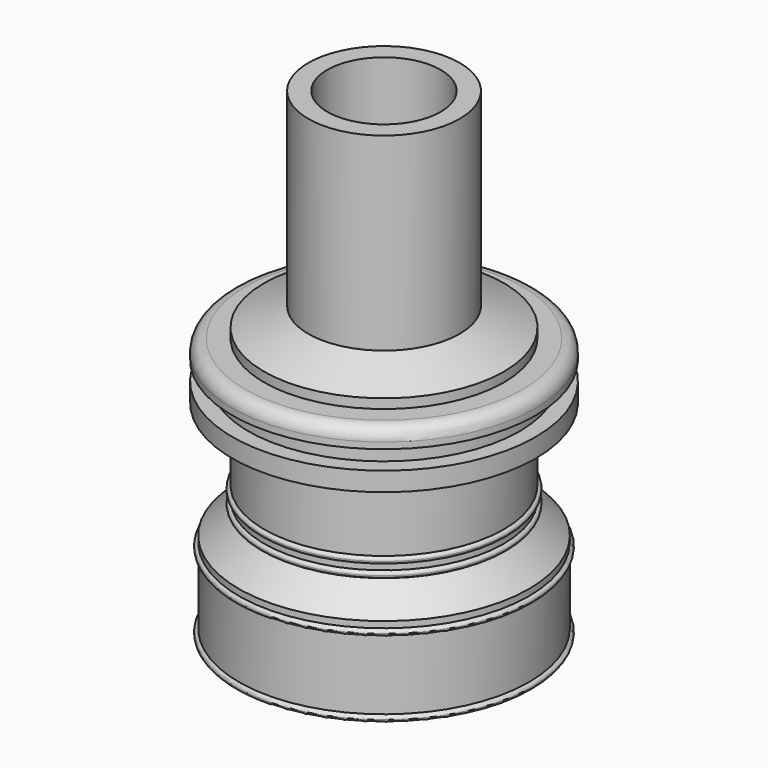
from build123d import *


with BuildPart() as f2:
    # F0 (on Front) → F2 (revolve)
    with BuildSketch(Plane.XZ):
        with BuildLine():
            ThreePointArc((23.5, 0.5), (23.3535533906, 0.8535533906), (23, 1))
            Line((23, 1), (23, 12))
            ThreePointArc((23, 12), (23.3535533906, 12.1464466094), (23.5, 12.5))
            ThreePointArc((23.5, 12.5), (23.3535533906, 12.8535533906), (23, 13))
            Line((23, 13), (23, 14))
            Line((23, 14), (19, 17.9))
            Line((19, 17.9), (19, 18))
            ThreePointArc((19, 18), (19.3535533906, 18.1464466094), (19.5, 18.5))
            ThreePointArc((19.5, 18.5), (19.3535533906, 18.8535533906), (19, 19))
            Line((19, 19), (19, 20))
            ThreePointArc((19, 20), (19.3535533906, 20.1464466094), (19.5, 20.5))
            ThreePointArc((19.5, 20.5), (19.3535533906, 20.8535533906), (19, 21))
            Line((19, 21), (19, 32.5))
            Line((19, 32.5), (24, 32.5))
            Line((24, 32.5), (24, 35.5))
            Line((24, 35.5), (21.5, 35.5))
            Line((21.5, 35.5), (21.5, 38.5))
            Line((21.5, 38.5), (24, 38.5))
            Line((24, 38.5), (24, 39.5))
            ThreePointArc((24, 39.5), (23.4142135624, 40.9142135624), (22, 41.5))
            Line((22, 41.5), (19, 41.5))
            Line((19, 41.5), (19, 43))
            Line((19, 43), (12, 46))
            Line((12, 46), (12, 76))
            Line((12, 76), (9, 76))
            Line((9, 76), (9, 45))
            Line((9, 45), (16, 41))
            Line((16, 41), (16, 17.9))
            Line((16, 17.9), (20, 14))
            Line((20, 14), (20, 0))
            Line((20, 0), (23, 0))
            ThreePointArc((23, 0), (23.3535533906, 0.1464466094), (23.5, 0.5))
        make_face()
    revolve(axis=Axis((0, 0, 0), (0, 0, 1)))


solid = f2.part
